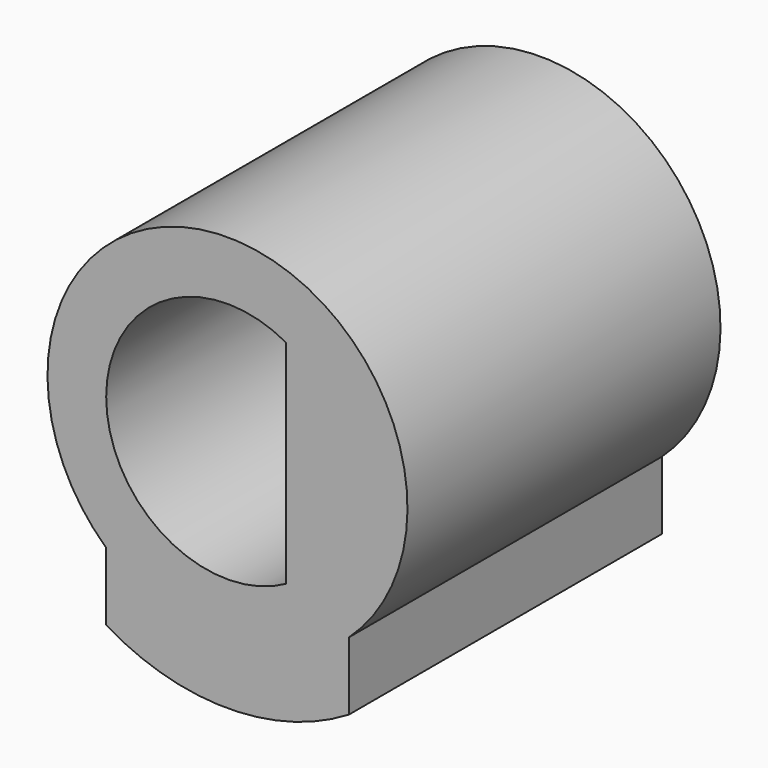
from build123d import *

# Parameters (mm, degrees)
PAD_DEPTH = 10


with BuildPart() as part:
    # Sketch → Pad (new body)
    with BuildSketch(Plane.XZ):
        with BuildLine():
            Line((-3.1, -5.13712), (-3.1, -3.398529))
            ThreePointArc((3.1, -3.398529), (0, 4.6), (-3.1, -3.398529))
            Line((3.1, -5.13712), (3.1, -3.398529))
            ThreePointArc((-3.1, -5.13712), (0, -6), (3.1, -5.13712))
        make_face()
        with BuildLine():
            Line((1.5, 2.712932), (1.5, -2.712932))
            ThreePointArc((1.5, 2.712932), (-3.1, 0), (1.5, -2.712932))
        make_face(mode=Mode.SUBTRACT)
    extrude(amount=PAD_DEPTH)


solid = part.part
